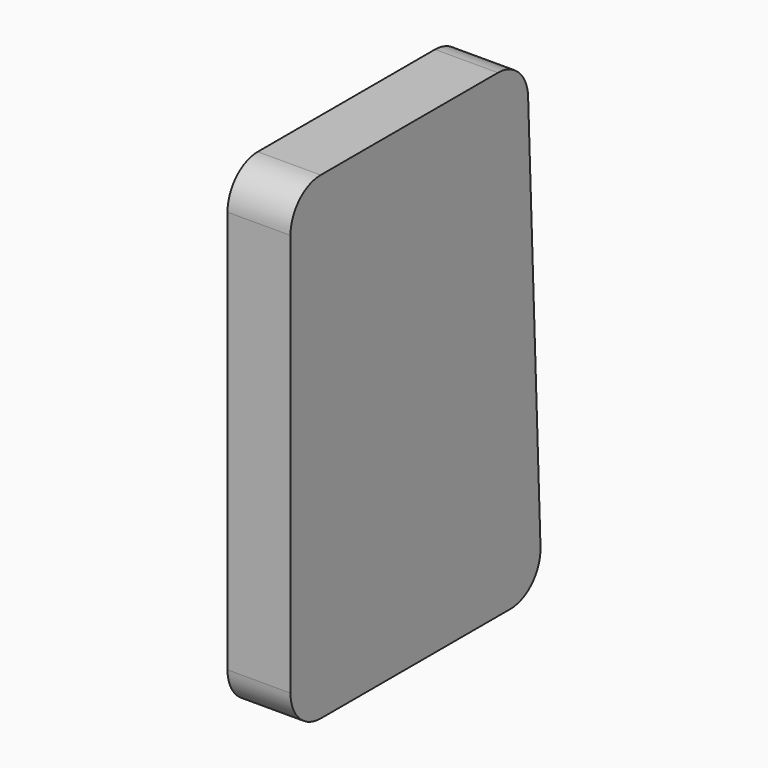
from build123d import *

# Parameters (mm, degrees)
BOX009_W          = 5
BOX009_H          = 24
BOX009_DEPTH      = 40
BOX009_ROLL_ANGLE = -2.2
BOX008_W          = 5
BOX008_H          = 25
BOX008_DEPTH      = 38
FILLET046_R       = 3


with BuildPart() as cube080:
    # Box009 → Box009 (new body)
    with BuildSketch(Plane.XY):
        with Locations((2.5, 12)):
            Rectangle(BOX009_W, BOX009_H)
    extrude(amount=BOX009_DEPTH)


with BuildPart() as cube080_1:
    # Box009 roll: moved
    add(cube080.part.rotate(Axis((0, 0, 0), (1, 0, 0)), BOX009_ROLL_ANGLE))


with BuildPart() as cube080_2:
    # Box009 placement: moved
    add(cube080_1.part.moved(Location((175, -24, -1))))


with BuildPart() as cut003:
    # Box008 → Box008 (new body)
    with BuildSketch(Plane(origin=(175, 0, 0), x_dir=(1, 0, 0), z_dir=(0, 0, 1))):
        with Locations((2.5, 12.5)):
            Rectangle(BOX008_W, BOX008_H)
    extrude(amount=BOX008_DEPTH)

    # Cut003: cut Cube080
    add(cube080_2.part, mode=Mode.SUBTRACT)


with BuildPart() as cut003_1:
    # Cut003 placement: moved
    add(cut003.part.moved(Location((0, 1, 1))))


with BuildPart() as fillet046:
    # Part__Mirroring001: instance of Cut003
    add(cut003_1.part.mirror(Plane(origin=(0, 0, 0), x_dir=(1, 0, 0), z_dir=(0, 1, 0))))


with BuildPart() as fillet046_1:
    # Part__Mirroring001 placement: moved
    add(fillet046.part.moved(Location((-57, 154, 73))))

    # Fillet046
    fillet046_edges = [fillet046_1.edges().sort_by_distance(p)[0] for p in [
        (120.5, 128, 74),
        (120.5, 128, 112),
        (120.5, 152.943881, 74),
        (120.5, 151.484068, 112),
    ]]
    fillet(fillet046_edges, radius=FILLET046_R)


solid = fillet046_1.part
